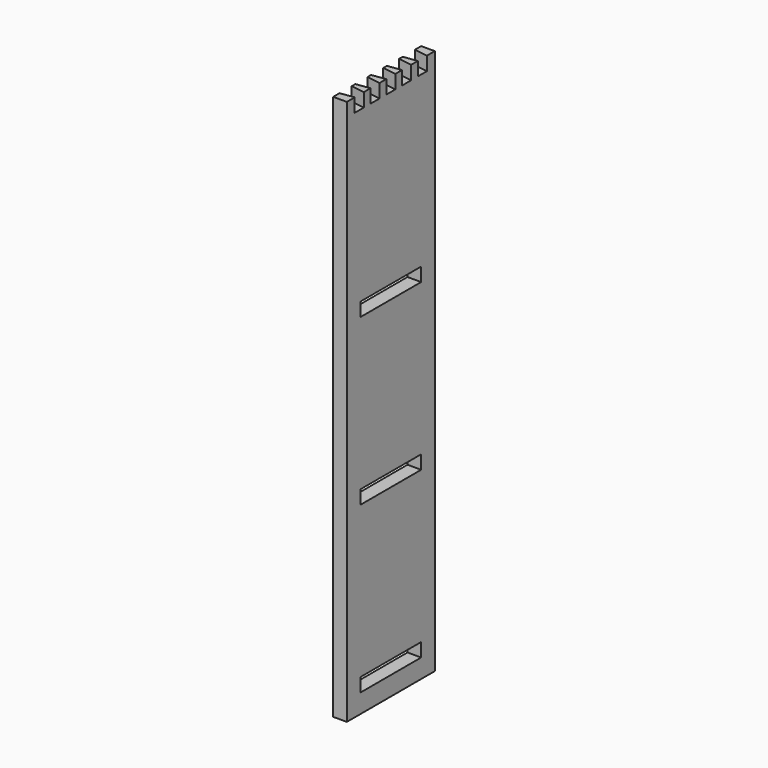
from build123d import *

# Parameters (mm, degrees)
F0_W     = 18
F0_H     = 145
F1_DEPTH = 720
F2_W     = 100
F2_H     = 18
F3_DEPTH = 18.001
F5_DEPTH = 18


with BuildPart() as f1:
    # F0 (on Top) → F1 (new body)
    with BuildSketch(Plane.XY):
        with Locations((-9, 0)):
            Rectangle(F0_W, F0_H)
    extrude(amount=F1_DEPTH)

    # F2 (on face) → F3 (cut, through all)
    with BuildSketch(Plane.YZ):
        with Locations((0, 34)):
            Rectangle(F2_W, F2_H)
        with Locations((0, 252)):
            Rectangle(F2_W, F2_H)
        with Locations((0, 470)):
            Rectangle(F2_W, F2_H)
    extrude(amount=-F3_DEPTH, mode=Mode.SUBTRACT)

    # F4 (on face) → F5 (cut)
    with BuildSketch(Plane.XY.offset(720)):
        Polygon((-18, 0), (-18, -10), (0, -7.5), (0, 0), (0, 7.5), (-18, 10), align=None)
        Polygon((0, -18.5), (-18, -16), (-18, -36), (0, -33.5), align=None)
        Polygon((-18, 36), (-18, 16), (0, 18.5), (0, 33.5), align=None)
        Polygon((-18, 62), (-18, 42), (0, 44.5), (0, 59.5), align=None)
        Polygon((0, -44.5), (-18, -42), (-18, -62), (0, -59.5), align=None)
    extrude(amount=-F5_DEPTH, mode=Mode.SUBTRACT)


solid = f1.part
